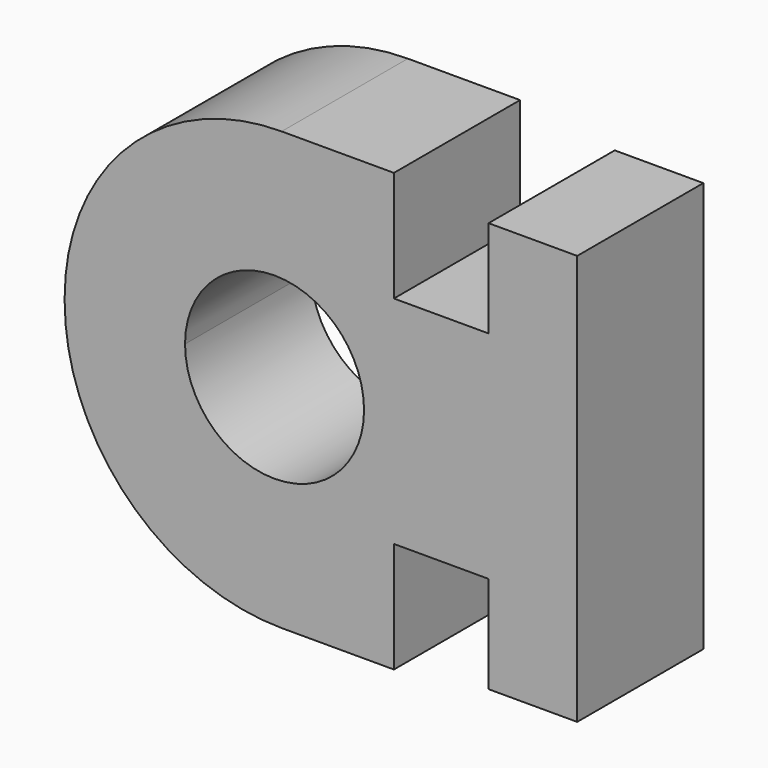
from build123d import *

# Parameters (mm, degrees)
F1_DEPTH = 28.956
F2_R     = 39.858666


with BuildPart() as f1:
    # F0 (on Front) → F1 (new body)
    with BuildSketch(Plane.XZ):
        with BuildLine():
            Line((0, -37.671965), (0, 0))
            Line((0, 0), (-39.146767, 0))
            ThreePointArc((-39.146767, 0), (-55.584025, -16.437258), (-72.021282, 0))
            Line((-72.021282, 0), (-94.127469, 0))
            Line((-94.127469, 0), (-94.127469, -40.149245))
            Line((-94.127469, -40.149245), (-65.204445, -40.149245))
            Line((-65.204445, -40.149245), (-55.504855, -40.149245))
            Line((-55.504855, -40.149245), (-33.65957, -40.149245))
            Line((-33.65957, -40.149245), (-33.65957, -19.839078))
            Line((-33.65957, -19.839078), (-16.272509, -19.839078))
            Line((-16.272509, -19.839078), (-16.272509, -36.780316))
            Line((-16.272509, -36.780316), (-16.272509, -37.671965))
            Line((-16.272509, -37.671965), (0, -37.671965))
        make_face()
        with BuildLine():
            Line((0, 0), (0, 37.671965))
            Line((0, 37.671965), (-16.272509, 37.671965))
            Line((-16.272509, 37.671965), (-16.272509, 36.780316))
            Line((-16.272509, 36.780316), (-16.272509, 19.839078))
            Line((-16.272509, 19.839078), (-33.65957, 19.839078))
            Line((-33.65957, 19.839078), (-33.65957, 40.149245))
            Line((-33.65957, 40.149245), (-55.504855, 40.149245))
            Line((-55.504855, 40.149245), (-65.204445, 40.149245))
            Line((-65.204445, 40.149245), (-94.127469, 40.149245))
            Line((-94.127469, 40.149245), (-94.127469, 0))
            Line((-94.127469, 0), (-72.021282, 0))
            ThreePointArc((-72.021282, 0), (-55.584025, 16.437258), (-39.146767, 0))
            Line((-39.146767, 0), (0, 0))
        make_face()
    extrude(amount=F1_DEPTH)

    # F2
    f2_edges = [f1.edges().sort_by_distance(p)[0] for p in [
        (-94.127469, -14.478, 40.149245),
        (-94.127469, -14.478, -40.149245),
    ]]
    fillet(f2_edges, radius=F2_R)


solid = f1.part
